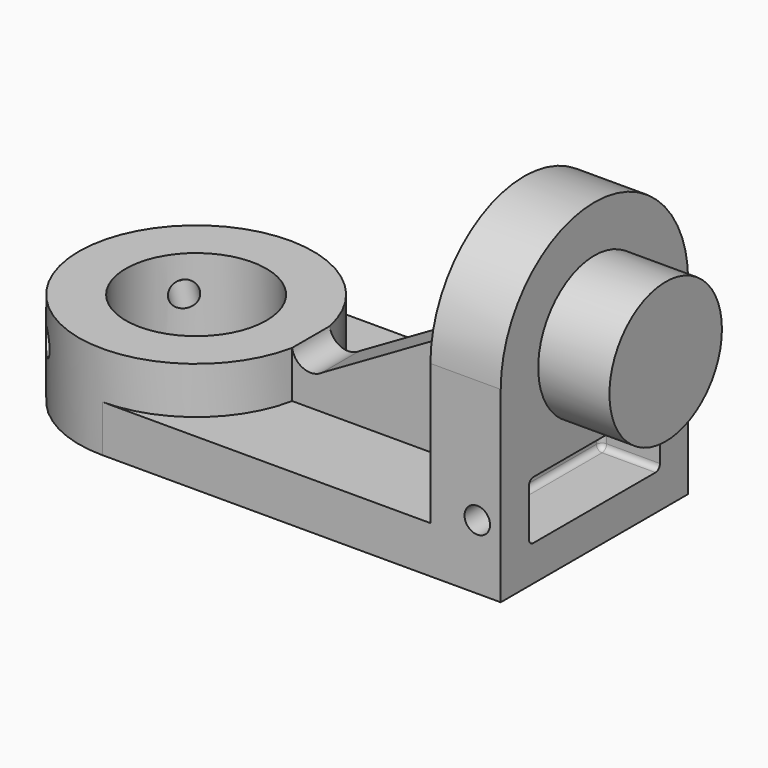
from build123d import *

# Parameters (mm, degrees)
F0_W          = 53.975
F0_H          = 31.75
F1_DEPTH      = 6.35
F2_R          = 15.875
F3_DEPTH      = 6.35
F3_DEPTH_BACK = 6.35
F4_R          = 9.525
F5_DEPTH      = 25.4
F6_W          = 31.75
F6_H          = 6.35
F6_R          = 9.525
F7_DEPTH      = 9.525
F8_R          = 9.525
F9_DEPTH      = 9.652
F9_DEPTH_BACK = 9.525
F12_DEPTH     = 3.175
F13_R         = 2.54
F14_DEPTH     = 19.051
F15_R         = 1.7272
F16_DEPTH     = 31.751
F17_W         = 22.1996
F17_H         = 7.874
F18_DEPTH     = 8.001
F19_R         = 0.762
F24_R         = 1.7272
F25_DEPTH     = 12.7
F27_R         = 1.7272
F28_DEPTH     = 12.7


with BuildPart() as f1:
    # F0 (on Top) → F1 (new body)
    with BuildSketch(Plane.XY):
        with Locations((-26.9875, -15.875)):
            Rectangle(F0_W, F0_H)
    extrude(amount=F1_DEPTH)

    # F2 (on face) → F3 (join, two sides)
    with BuildSketch(Plane.XY.offset(6.35)) as f3_sk:
        with Locations((-53.975, -15.875)):
            Circle(F2_R)
    extrude(amount=F3_DEPTH)
    extrude(f3_sk.sketch, amount=-F3_DEPTH_BACK)

    # F4 (on face) → F5 (cut)
    with BuildSketch(Plane.XY.offset(12.7)):
        with Locations((-53.975, -15.875)):
            Circle(F4_R)
    extrude(amount=-F5_DEPTH, mode=Mode.SUBTRACT)

    # F6 (on face) → F7 (join)
    with BuildSketch(Plane.YZ):
        with BuildLine():
            Line((0, 6.35), (0, 25.4))
            ThreePointArc((0, 25.4), (-15.875, 9.525), (-31.75, 25.4))
            Line((-31.75, 25.4), (-31.75, 6.35))
            Line((-31.75, 6.35), (0, 6.35))
        make_face()
        with Locations((-15.875, 3.175)):
            Rectangle(F6_W, F6_H)
        with BuildLine():
            ThreePointArc((-31.75, 25.4), (-15.875, 9.525), (0, 25.4))
            ThreePointArc((0, 25.4), (-15.875, 41.275), (-31.75, 25.4))
        make_face()
        with Locations((-15.875, 25.4)):
            Circle(F6_R, mode=Mode.SUBTRACT)
    extrude(amount=-F7_DEPTH)

    # F8 (on face) → F9 (join, two sides)
    with BuildSketch(Plane.YZ) as f9_sk:
        with Locations((-15.875, 25.4)):
            Circle(F8_R)
    extrude(amount=F9_DEPTH)
    extrude(f9_sk.sketch, amount=-F9_DEPTH_BACK)

    # F11 (on offset) → F12 (join, symmetric)
    with BuildSketch(Plane.XZ.offset(15.875)):
        Polygon((-9.525, 6.35), (-9.525, 25.4), (-34.3816611394, 11.049), (-34.3816611394, 12.7), (-38.9536611394, 12.7), (-38.9536611394, 6.35), align=None)
    extrude(amount=F12_DEPTH, both=True)

    # F13 (on face) → F14 (cut, through all)
    with BuildSketch(Plane.XZ.offset(19.05)):
        with Locations((-35.9090883884, 13.0784250415)):
            Circle(F13_R)
    extrude(amount=-F14_DEPTH, mode=Mode.SUBTRACT)

    # F15 (on face) → F16 (cut, through all)
    with BuildSketch(Plane.XZ.offset(31.75)):
        with Locations((-3.175, 8.763)):
            Circle(F15_R)
    extrude(amount=-F16_DEPTH, mode=Mode.SUBTRACT)

    # F17 (on face) → F18 (cut)
    with BuildSketch(Plane.YZ):
        with Locations((-15.875, 8.763)):
            Rectangle(F17_W, F17_H)
    extrude(amount=-F18_DEPTH, mode=Mode.SUBTRACT)

    # F19
    f19_edges = [f1.edges().sort_by_distance(p)[0] for p in [
        (-4.0005, -4.7752, 4.826),
        (-8.001, -15.875, 4.826),
        (-4.0005, -26.9748, 4.826),
        (-8.001, -15.875, 12.7),
        (-4.0005, -4.7752, 12.7),
        (-4.0005, -26.9748, 12.7),
        (-8.001, -26.9748, 8.763),
        (-8.001, -4.7752, 8.763),
        (-9.525, -19.05, 15.875),
        (-9.525, -12.7, 15.875),
    ]]
    fillet(f19_edges, radius=F19_R)

    # F24 (on offset) → F25 (cut)
    with BuildSketch(Plane(origin=(-47.3526280605, -47.3526280605, 0), x_dir=(0.7071067812, -0.7071067812, 0), z_dir=(-0.7071067812, -0.7071067812, 0))):
        with Locations((-26.9995890558, 7.874)):
            Circle(F24_R)
    extrude(amount=-F25_DEPTH, mode=Mode.SUBTRACT)

    # F27 (on offset) → F28 (cut)
    with BuildSketch(Plane(origin=(-31.4692606164, 31.4692606164, 0), x_dir=(-0.7071067812, -0.7071067812, 0), z_dir=(-0.7071067812, 0.7071067812, 0))):
        with Locations((49.6344417334, 7.874)):
            Circle(F27_R)
    extrude(amount=-F28_DEPTH, mode=Mode.SUBTRACT)


solid = f1.part
